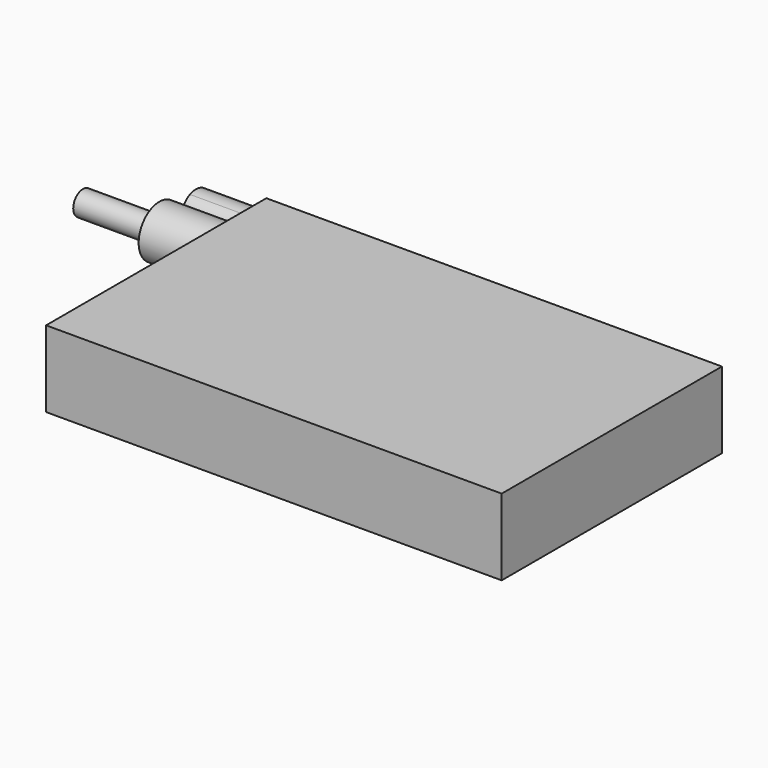
from build123d import *

# Parameters (mm, degrees)
F0_W     = 151.5196710825
F0_H     = 91.5514752269
F1_DEPTH = 25.4
F2_W     = 113.6156320572
F2_H     = 59.6670508385
F3_DEPTH = 10.5557646602
F4_R     = 2.4710185826
F4_R_2   = 8.5969736698
F4_R_3   = 4.0753416552
F5_DEPTH = 25.4
F6_R     = 4.038631368
F7_DEPTH = 25.4
F8_R     = 3.0157926106
F9_DEPTH = 160.1748466492


with BuildPart() as f1:
    # F0 (on Top) → F1 (new body)
    with BuildSketch(Plane.XY):
        with Locations((0.2970024943, -3.213506192)):
            Rectangle(F0_W, F0_H)
    extrude(amount=F1_DEPTH)

    # F2 (on face) → F3 (cut)
    with BuildSketch(Plane(origin=(0, 0, 0), x_dir=(1, 0, 0), z_dir=(0, 0, -1))):
        Rectangle(F2_W, F2_H)
    extrude(amount=-F3_DEPTH, mode=Mode.SUBTRACT)

    # F4 (on face) → F5 (join)
    with BuildSketch(Plane(origin=(-75.4628330469, 0, 0), x_dir=(0, -1, 0), z_dir=(-1, 0, 0))):
        with BuildLine():
            Line((-42.5622314215, 18.2348300056), (-42.5622314215, 12.7))
            Line((-42.5622314215, 12.7), (-42.5622314215, 7.1651699944))
            ThreePointArc((-42.5622314215, 7.1651699944), (-39.9480731069, 9.4013257281), (-38.9718742504, 12.7))
            ThreePointArc((-38.9718742504, 12.7), (-39.9480731069, 15.9986742719), (-42.5622314215, 18.2348300056))
        make_face()
        with BuildLine():
            Line((-42.5622314215, 7.1651699944), (-42.5622314215, 12.7))
            Line((-42.5622314215, 12.7), (-42.5622314215, 18.2348300056))
            ThreePointArc((-42.5622314215, 18.2348300056), (-51.0946257577, 12.7), (-42.5622314215, 7.1651699944))
        make_face()
        with Locations((-45.0332500041, 12.7)):
            Circle(F4_R, mode=Mode.SUBTRACT)
        with Locations((-29.8372581601, 12.7)):
            Circle(F4_R_2)
        with Locations((-29.8372581601, 12.7)):
            Circle(F4_R_3, mode=Mode.SUBTRACT)
    extrude(amount=F5_DEPTH)

    # F8 (on face) → F9 (join)
    with BuildSketch(Plane(origin=(-100.8628330469, 0, 0), x_dir=(0, -1, 0), z_dir=(-1, 0, 0))):
        with Locations((-44.9228733778, 12.9456110299)):
            Circle(F8_R)
    extrude(amount=-F9_DEPTH)


with BuildPart() as f7:
    # F6 (on face) → F7 (new body)
    with BuildSketch(Plane(origin=(-100.8628330469, 0, 0), x_dir=(0, -1, 0), z_dir=(-1, 0, 0))):
        with Locations((-29.8372581601, 12.7)):
            Circle(F6_R)
    extrude(amount=F7_DEPTH)


solid = Compound([f1.part, f7.part])
